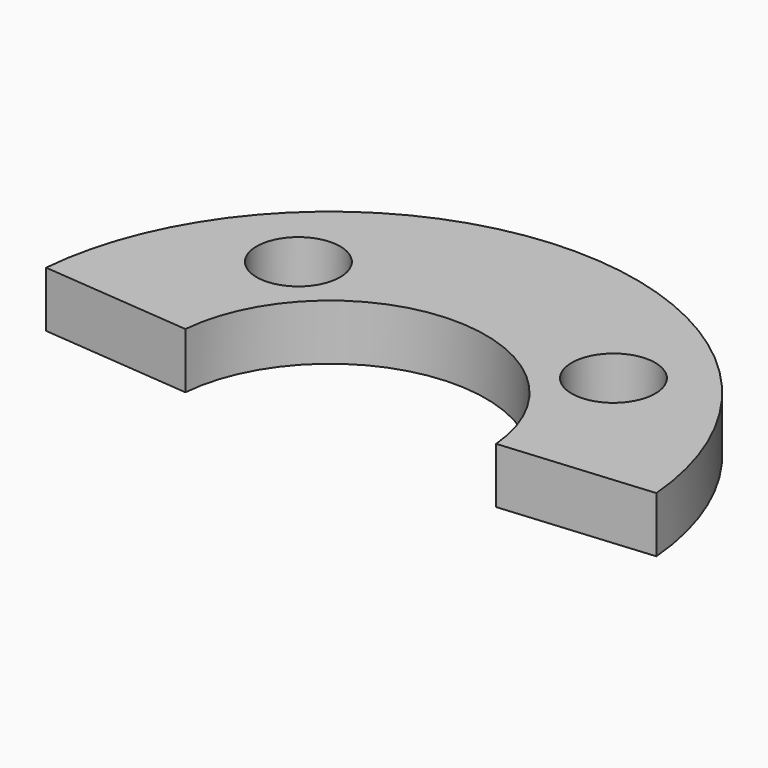
from build123d import *

# Parameters (mm, degrees)
SKETCH_R  = 1.5
PAD_DEPTH = 2


with BuildPart() as part:
    # Sketch → Pad (new body)
    with BuildSketch(Plane.XY):
        with BuildLine():
            ThreePointArc((10.958142, 0.958713), (0, 11), (-10.958142, 0.958713))
            Line((-5.57869, 0.488072), (-10.958142, 0.958713))
            ThreePointArc((5.57869, 0.488072), (0, 5.6), (-5.57869, 0.488072))
            Line((5.57869, 0.488072), (10.958142, 0.958713))
        make_face()
        with Locations((-5.656854, 5.656854)):
            Circle(SKETCH_R, mode=Mode.SUBTRACT)
        with Locations((5.656854, 5.656854)):
            Circle(SKETCH_R, mode=Mode.SUBTRACT)
    extrude(amount=PAD_DEPTH)


solid = part.part
